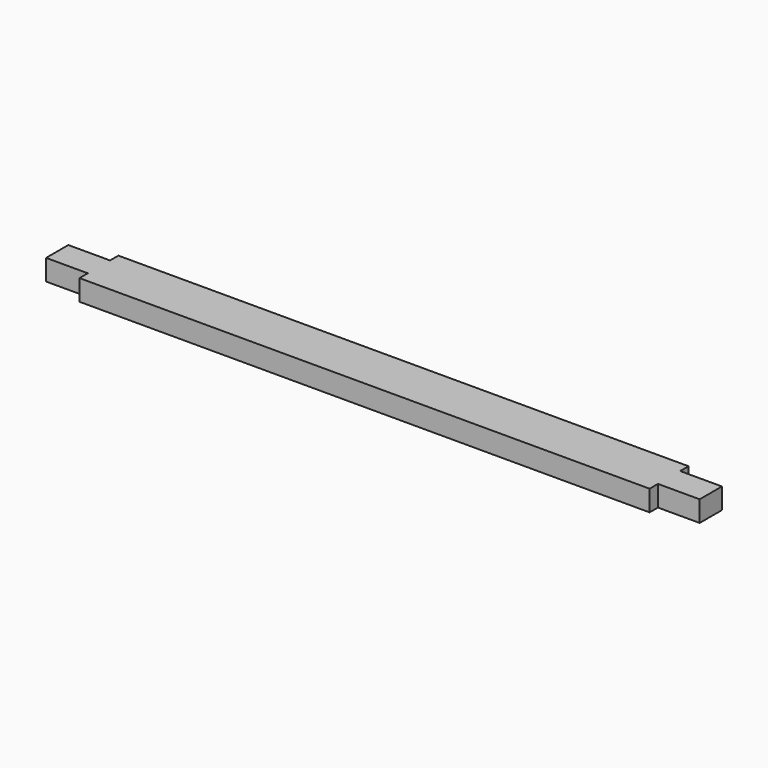
from build123d import *

# Parameters (mm, degrees)
F0_W     = 88.9
F0_H     = 38.1
F1_DEPTH = 1041.4
F2_W     = 50.8
F2_H     = 38.1
F3_DEPTH = 76.2
F4_W     = 50.8
F4_H     = 38.1
F5_DEPTH = 76.2


with BuildPart() as f1:
    # F0 (on Right) → F1 (new body)
    with BuildSketch(Plane.YZ):
        with Locations((44.45, 19.05)):
            Rectangle(F0_W, F0_H)
    extrude(amount=-F1_DEPTH)

    # F2 (on face) → F3 (join)
    with BuildSketch(Plane.YZ):
        with Locations((44.45, 19.05)):
            Rectangle(F2_W, F2_H)
    extrude(amount=F3_DEPTH)

    # F4 (on face) → F5 (join)
    with BuildSketch(Plane(origin=(-1041.4, 0, 0), x_dir=(0, -1, 0), z_dir=(-1, 0, 0))):
        with Locations((-44.45, 19.05)):
            Rectangle(F4_W, F4_H)
    extrude(amount=F5_DEPTH)


solid = f1.part
